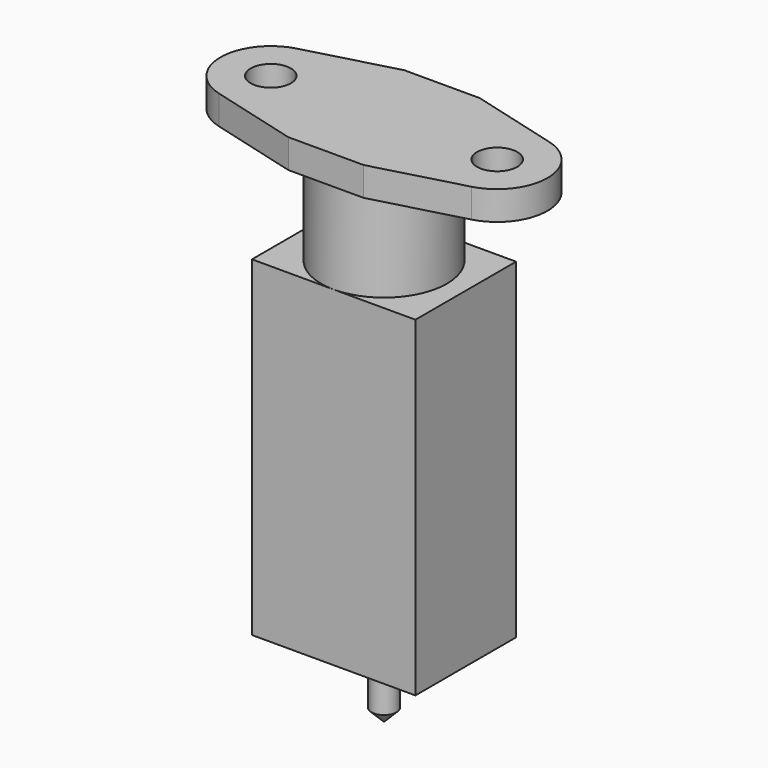
from build123d import *

# Parameters (mm, degrees)
F0_R     = 1.6
F1_DEPTH = 2.3
F2_R     = 5
F3_DEPTH = 7.7
F5_DEPTH = 26.3
F6_R     = 1
F7_DEPTH = 6
F8_SIZE  = 1


with BuildPart() as f1:
    # F0 (on Top) → F1 (new body)
    with BuildSketch(Plane.XY):
        with BuildLine():
            Line((-3, 5.765), (-10.043565, 3.861473))
            ThreePointArc((-10.043565, 3.861473), (-13, 0), (-10.043565, -3.861473))
            Line((-10.043565, -3.861473), (-3, -5.765))
            Line((-3, -5.765), (0, -5.765))
            Line((0, -5.765), (3, -5.765))
            Line((3, -5.765), (10.043565, -3.861473))
            ThreePointArc((10.043565, -3.861473), (13, 0), (10.043565, 3.861473))
            Line((10.043565, 3.861473), (3, 5.765))
            Line((3, 5.765), (0, 5.765))
            Line((0, 5.765), (-3, 5.765))
        make_face()
        with Locations((-9, 0)):
            Circle(F0_R, mode=Mode.SUBTRACT)
        with Locations((9, 0)):
            Circle(F0_R, mode=Mode.SUBTRACT)
    extrude(amount=-F1_DEPTH)

    # F2 (on face) → F3 (join)
    with BuildSketch(Plane(origin=(0, 0, -2.3), x_dir=(1, 0, 0), z_dir=(0, 0, -1))):
        Circle(F2_R)
    extrude(amount=F3_DEPTH)

    # F4 (on face) → F5 (join)
    with BuildSketch(Plane(origin=(0, 0, -10), x_dir=(1, 0, 0), z_dir=(0, 0, -1))):
        with BuildLine():
            Line((6.5, -5), (6.5, 5))
            Line((6.5, 5), (0, 5))
            ThreePointArc((0, 5), (3.535534, 3.535534), (5, 0))
            ThreePointArc((5, 0), (3.535534, -3.535534), (0, -5))
            Line((0, -5), (6.5, -5))
        make_face()
        with BuildLine():
            ThreePointArc((0, -5), (-5, 0), (0, 5))
            Line((0, 5), (-6.5, 5))
            Line((-6.5, 5), (-6.5, -5))
            Line((-6.5, -5), (0, -5))
        make_face()
        with BuildLine():
            ThreePointArc((5, 0), (3.535534, 3.535534), (0, 5))
            ThreePointArc((0, 5), (-5, 0), (0, -5))
            ThreePointArc((0, -5), (3.535534, -3.535534), (5, 0))
        make_face()
        with BuildLine():
            ThreePointArc((0, -5), (-5, 0), (0, 5))
            Line((0, 5), (-6.5, 5))
            Line((-6.5, 5), (-6.5, -5))
            Line((-6.5, -5), (0, -5))
        make_face()
        with BuildLine():
            Line((6.5, -5), (6.5, 5))
            Line((6.5, 5), (0, 5))
            ThreePointArc((0, 5), (3.535534, 3.535534), (5, 0))
            ThreePointArc((5, 0), (3.535534, -3.535534), (0, -5))
            Line((0, -5), (6.5, -5))
        make_face()
    extrude(amount=F5_DEPTH)

    # F6 (on face) → F7 (join)
    with BuildSketch(Plane(origin=(0, 0, -36.3), x_dir=(1, 0, 0), z_dir=(0, 0, -1))):
        Circle(F6_R)
    extrude(amount=F7_DEPTH)

    # F8
    f8_edges = [f1.edges().sort_by_distance(p)[0] for p in [
        (-1, 0, -42.3),
    ]]
    chamfer(f8_edges, length=F8_SIZE)


solid = f1.part
